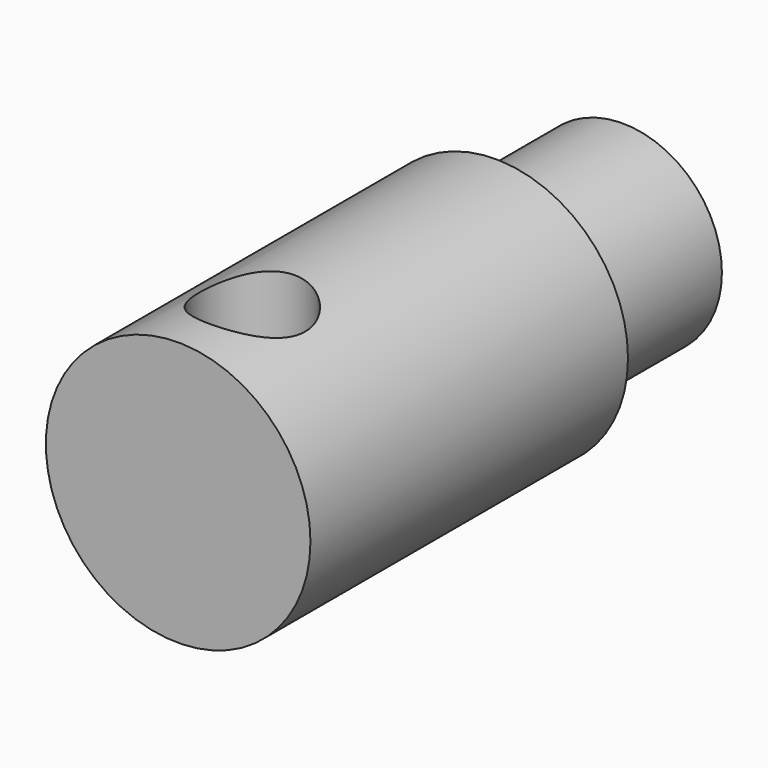
from build123d import *

# Parameters (mm, degrees)
SKETCH004_R       = 7.5
SKETCH004_R_2     = 3.15
PAD004_DEPTH      = 12
SKETCH005_R       = 10
PAD005_DEPTH      = 30
SKETCH006_R       = 4
POCKET_DEPTH      = 10.001
POCKET_DEPTH_BACK = 10.001


with BuildPart() as part:
    # Sketch004 → Pad004 (new body)
    with BuildSketch(Plane.XZ):
        Circle(SKETCH004_R)
        Circle(SKETCH004_R_2, mode=Mode.SUBTRACT)
    extrude(amount=PAD004_DEPTH)

    # Sketch005 → Pad005 (join)
    with BuildSketch(Plane.XZ.offset(12)):
        Circle(SKETCH005_R)
    extrude(amount=PAD005_DEPTH)

    # Sketch006 → Pocket (cut, two sides)
    with BuildSketch(Plane(origin=(0, -35, 0), x_dir=(1, 0, 0), z_dir=(0, 0, 1))) as pocket_sk:
        Circle(SKETCH006_R)
    extrude(amount=-POCKET_DEPTH, mode=Mode.SUBTRACT)
    extrude(pocket_sk.sketch, amount=POCKET_DEPTH_BACK, mode=Mode.SUBTRACT)


with BuildPart() as part_1:
    # Body002 placement: moved
    add(part.part.moved(Location((0, -439, 18))))


solid = part_1.part
